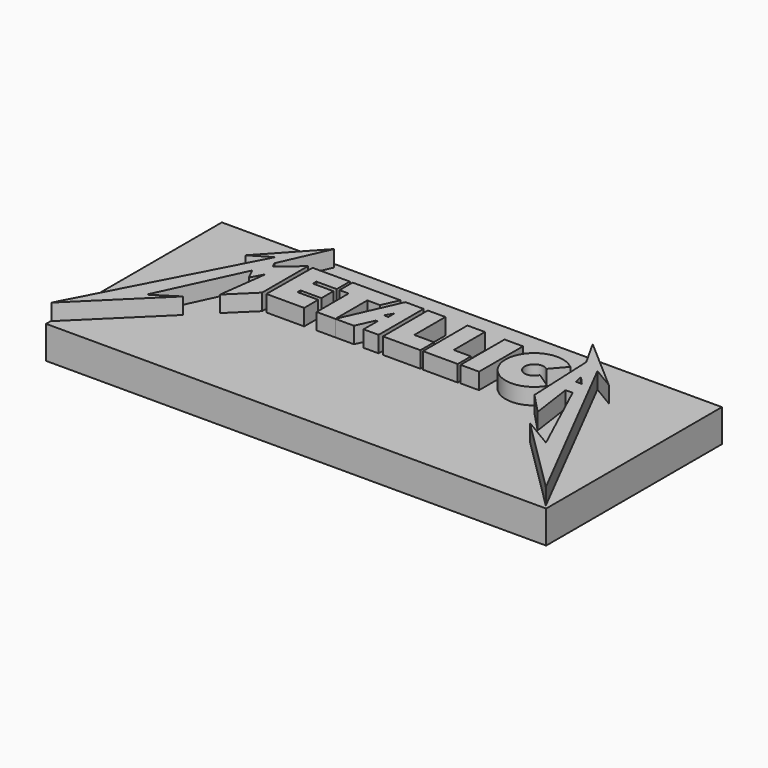
from build123d import *

# Parameters (mm, degrees)
F2_DEPTH = 19.05
F1_W     = 194.589332
F1_H     = 85.490536
F3_DEPTH = 12.7


with BuildPart() as f2:
    # F0 (on Top) → F2 (new body)
    with BuildSketch(Plane.XY):
        Polygon((-60.458113, 35.008088), (-94.854079, -30.843109), (-66.187866, -2.708755), (-75.660013, -8.768145), (-60.458113, 23.813423), (-58.312221, 19.433456), (-55.715751, 24.404407), (-58.178183, 5.295916), (-49.012005, 14.252825), (-49.012005, 36.596801), (-57.160843, 29.562337), (-58.135916, 31.721428), (-49.847785, 50.317489), (-68.337902, 30.230967), align=None)
        Polygon((-32.73917, 36.596801), (-47.225986, 36.596801), (-47.434933, 14.391311), (-32.73917, 14.391311), (-32.73917, 21.21683), (-40.818356, 21.21683), (-40.818356, 22.679443), (-32.669522, 22.679443), (-32.669522, 28.529888), (-40.67906, 28.529888), (-40.67906, 30.230967), (-32.73917, 30.230967), align=None)
        Polygon((-11.176554, 36.409594), (-20.851059, 14.676579), (-13.596826, 14.676579), (-10.53778, 21.462255), (-9.850883, 21.462255), (-9.850883, 14.676579), (-4.011643, 14.676579), (-4.011643, 36.568381), (-11.110418, 36.568381), align=None)
        Polygon((-9.0278, 25.681175), (-10.786415, 25.681175), (-9.0278, 28.62381), align=None, mode=Mode.SUBTRACT)
        Polygon((-13.003096, 36.596801), (-31.655155, 36.596801), (-31.655155, 30.230967), (-28.109251, 30.230967), (-28.109251, 14.676579), (-20.851059, 14.676579), (-20.851059, 30.230967), (-15.872873, 30.230967), align=None)
        Polygon((4.501756, 36.533799), (-2.350571, 36.533799), (-2.328525, 14.708572), (12.227939, 14.708572), (12.227939, 21.401916), (4.501756, 21.401916), align=None)
        Polygon((20.04927, 36.332581), (13.22668, 36.332581), (13.22668, 14.708572), (26.762206, 14.708572), (26.762206, 21.151813), (20.04927, 21.151813), align=None)
        Polygon((34.966625, 36.193457), (27.917653, 36.193457), (27.78833, 36.193457), (27.78833, 14.813854), (34.966625, 14.813854), align=None)
        with BuildLine():
            Line((49.784653, 29.024474), (54.630718, 34.638999))
            ThreePointArc((54.630718, 34.638999), (36.382, 24.317334), (56.995582, 20.492061))
            Line((56.995582, 20.492061), (50.803033, 24.640113))
            ThreePointArc((50.803033, 24.640113), (43.742684, 25.310619), (49.784653, 29.024474))
        make_face()
        Polygon((71.224019, 32.604653), (50.605912, 50.543044), (56.463264, 40.08029), (57.673536, 13.384022), (65.418862, 5.262706), (63.087747, 21.655733), (65.823419, 21.779754), (80.036186, -8.974304), (68.021879, -1.797337), (98.221131, -31.775285), (62.782384, 37.631691), align=None)
        Polygon((64.375177, 28.02885), (62.098779, 28.02885), (61.371598, 31.411827), align=None, mode=Mode.SUBTRACT)
    extrude(amount=F2_DEPTH)


with BuildPart() as f3:
    # F1 (on Top) → F3 (new body)
    with BuildSketch(Plane.XY):
        with Locations((2.243698, 9.491088)):
            Rectangle(F1_W, F1_H)
    extrude(amount=F3_DEPTH)


solid = Compound([f2.part, f3.part])
